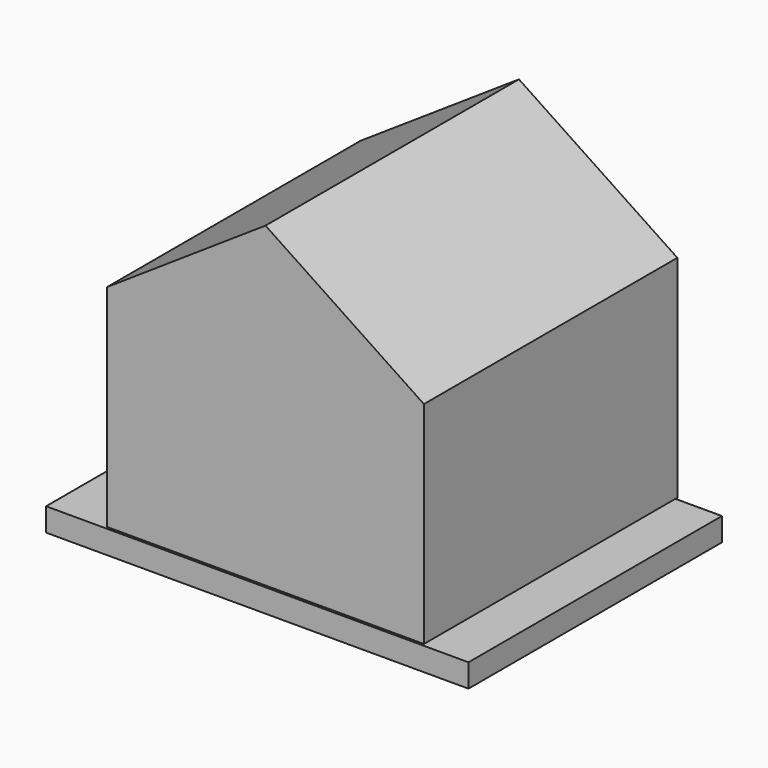
from build123d import *

# Parameters (mm, degrees)
F1_DEPTH = 300
F2_DEPTH = 300
F3_W     = 400
F3_H     = 300
F4_DEPTH = 22


with BuildPart() as f1:
    # F0 (on Front) → F1 (new body)
    with BuildSketch(Plane.XZ):
        Polygon((-150, 200), (-150, 0), (150, 0), (150, 200), (0, 200), align=None)
    extrude(amount=F1_DEPTH)

    # F0 (on Front) → F2 (join)
    with BuildSketch(Plane.XZ):
        Polygon((-150, 200), (-150, 0), (150, 0), (150, 200), (0, 200), align=None)
        Polygon((0, 300), (-150, 200), (0, 200), align=None)
        Polygon((0, 200), (150, 200), (0, 300), align=None)
    extrude(amount=F2_DEPTH)

    # F3 (on Top) → F4 (join)
    with BuildSketch(Plane.XY):
        with Locations((-5.947308, -152.311442)):
            Rectangle(F3_W, F3_H)
    extrude(amount=-F4_DEPTH)


solid = f1.part
